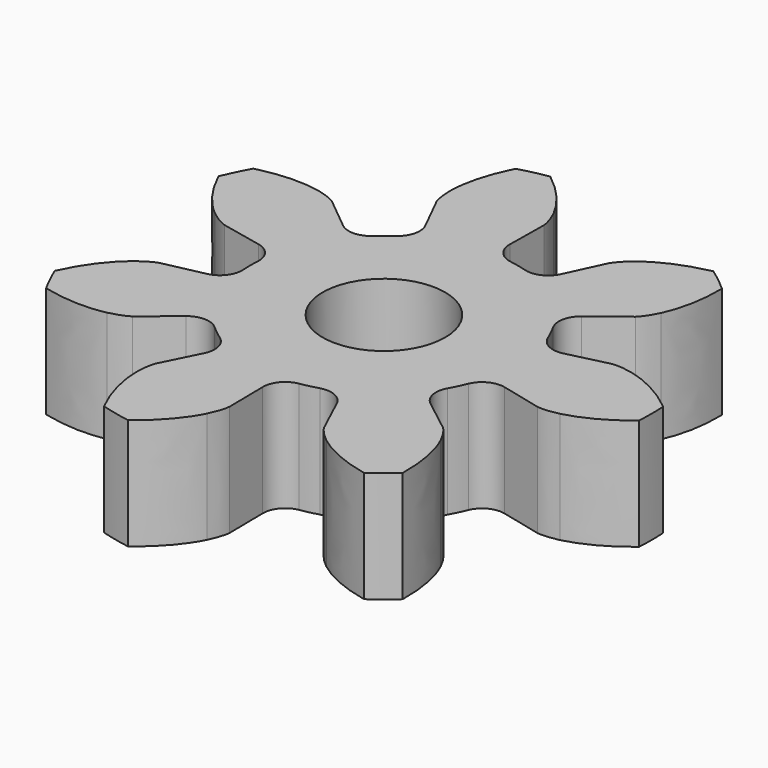
from build123d import *

# Parameters (mm, degrees)
CYLINDER002_R     = 0.875
CYLINDER002_DEPTH = 10
EXTRUDE_DEPTH     = 1.59


with BuildPart() as cylinder002:
    # Cylinder002 → Cylinder002 (new body)
    with BuildSketch(Plane.XY):
        Circle(CYLINDER002_R)
    extrude(amount=CYLINDER002_DEPTH)


with BuildPart() as cut:
    # InvoluteGear → Extrude (new body)
    with BuildSketch(Plane.XY):
        with BuildLine():
            Line((2.145433, -0.523441), (2.728817, -0.664878))
            add(Edge.make_bspline(
                [(2.728817, -0.664878), (2.761585, -0.669616), (2.859596, -0.677652), (3.02783, -0.638771)],
                knots=[0, 0, 0, 0, 1, 1, 1, 1], degree=3))
            add(Edge.make_bspline(
                [(3.02783, -0.638771), (3.226212, -0.590574), (3.503888, -0.476829), (3.820611, -0.215776)],
                knots=[0, 0, 0, 0, 1, 1, 1, 1], degree=3))
            ThreePointArc((3.820611, -0.215776), (3.826702, 0), (3.820611, 0.215776))
            add(Edge.make_bspline(
                [(3.820611, 0.215776), (3.503888, 0.476829), (3.226212, 0.590574), (3.02783, 0.638771)],
                knots=[0, 0, 0, 0, 1, 1, 1, 1], degree=3))
            add(Edge.make_bspline(
                [(3.02783, 0.638771), (2.859596, 0.677652), (2.761585, 0.669616), (2.728817, 0.664878)],
                knots=[0, 0, 0, 0, 1, 1, 1, 1], degree=3))
            Line((2.728817, 0.664878), (2.145433, 0.523441))
            ThreePointArc((2.145433, 0.523441), (1.925498, 0.548923), (1.775218, 0.711518))
            ThreePointArc((1.775218, 0.711518), (1.723103, 0.829803), (1.663117, 0.944297))
            ThreePointArc((1.663117, 0.944297), (1.629693, 1.163167), (1.746898, 1.351007))
            Line((1.746898, 1.351007), (2.221212, 1.718931))
            add(Edge.make_bspline(
                [(2.221212, 1.718931), (2.245347, 1.741595), (2.312739, 1.813213), (2.387233, 1.968986)],
                knots=[0, 0, 0, 0, 1, 1, 1, 1], degree=3))
            add(Edge.make_bspline(
                [(2.387233, 1.968986), (2.473239, 2.154137), (2.557438, 2.442152), (2.550813, 2.85254)],
                knots=[0, 0, 0, 0, 1, 1, 1, 1], degree=3))
            ThreePointArc((2.550813, 2.85254), (2.38591, 2.991836), (2.213412, 3.121609))
            add(Edge.make_bspline(
                [(2.213412, 3.121609), (1.811838, 3.036748), (1.549781, 2.89057), (1.38841, 2.76552)],
                knots=[0, 0, 0, 0, 1, 1, 1, 1], degree=3))
            add(Edge.make_bspline(
                [(1.38841, 2.76552), (1.253119, 2.658231), (1.198293, 2.576592), (1.181567, 2.54802)],
                knots=[0, 0, 0, 0, 1, 1, 1, 1], degree=3))
            Line((1.181567, 2.54802), (0.928413, 2.003727))
            ThreePointArc((0.928413, 2.003727), (0.771363, 1.847662), (0.550543, 1.831545))
            ThreePointArc((0.550543, 1.831545), (0.425571, 1.86455), (0.298655, 1.889037))
            ThreePointArc((0.298655, 1.889037), (0.106697, 1.999368), (0.032913, 2.20812))
            Line((0.032913, 2.20812), (0.040989, 2.808349))
            add(Edge.make_bspline(
                [(0.040989, 2.808349), (0.038317, 2.84135), (0.024342, 2.938692), (-0.051, 3.094056)],
                knots=[0, 0, 0, 0, 1, 1, 1, 1], degree=3))
            add(Edge.make_bspline(
                [(-0.051, 3.094056), (-0.142133, 3.276739), (-0.314814, 3.522142), (-0.6398, 3.772835)],
                knots=[0, 0, 0, 0, 1, 1, 1, 1], degree=3))
            ThreePointArc((-0.6398, 3.772835), (-0.851521, 3.730759), (-1.060532, 3.676806))
            add(Edge.make_bspline(
                [(-1.060532, 3.676806), (-1.244562, 3.309933), (-1.293666, 3.013909), (-1.296511, 2.809776)],
                knots=[0, 0, 0, 0, 1, 1, 1, 1], degree=3))
            add(Edge.make_bspline(
                [(-1.296511, 2.809776), (-1.296982, 2.637108), (-1.267337, 2.543343), (-1.255427, 2.512451)],
                knots=[0, 0, 0, 0, 1, 1, 1, 1], degree=3))
            Line((-1.255427, 2.512451), (-0.987721, 1.975166))
            ThreePointArc((-0.987721, 1.975166), (-0.963624, 1.755075), (-1.088702, 1.572382))
            ThreePointArc((-1.088702, 1.572382), (-1.192424, 1.495253), (-1.2907, 1.411294))
            ThreePointArc((-1.2907, 1.411294), (-1.496645, 1.330005), (-1.705856, 1.402472))
            Line((-1.705856, 1.402472), (-2.1701, 1.783023))
            add(Edge.make_bspline(
                [(-2.1701, 1.783023), (-2.197567, 1.80151), (-2.282385, 1.851276), (-2.450828, 1.889239)],
                knots=[0, 0, 0, 0, 1, 1, 1, 1], degree=3))
            add(Edge.make_bspline(
                [(-2.450828, 1.889239), (-2.650476, 1.931889), (-2.950005, 1.949888), (-3.34863, 1.852109)],
                knots=[0, 0, 0, 0, 1, 1, 1, 1], degree=3))
            ThreePointArc((-3.34863, 1.852109), (-3.44774, 1.660344), (-3.535874, 1.463293))
            add(Edge.make_bspline(
                [(-3.535874, 1.463293), (-3.363782, 1.090672), (-3.162956, 0.867712), (-3.005133, 0.738213)],
                knots=[0, 0, 0, 0, 1, 1, 1, 1], degree=3))
            add(Edge.make_bspline(
                [(-3.005133, 0.738213), (-2.870429, 0.630189), (-2.778637, 0.594904), (-2.747059, 0.584955)],
                knots=[0, 0, 0, 0, 1, 1, 1, 1], degree=3))
            Line((-2.747059, 0.584955), (-2.160081, 0.459265))
            ThreePointArc((-2.160081, 0.459265), (-1.972982, 0.34088), (-1.908132, 0.129183))
            ThreePointArc((-1.908132, 0.129183), (-1.9125, 0), (-1.908132, -0.129183))
            ThreePointArc((-1.908132, -0.129183), (-1.972982, -0.34088), (-2.160081, -0.459265))
            Line((-2.160081, -0.459265), (-2.747059, -0.584955))
            add(Edge.make_bspline(
                [(-2.747059, -0.584955), (-2.778637, -0.594904), (-2.870429, -0.630189), (-3.005133, -0.738213)],
                knots=[0, 0, 0, 0, 1, 1, 1, 1], degree=3))
            add(Edge.make_bspline(
                [(-3.005133, -0.738213), (-3.162956, -0.867712), (-3.363782, -1.090672), (-3.535874, -1.463293)],
                knots=[0, 0, 0, 0, 1, 1, 1, 1], degree=3))
            ThreePointArc((-3.535874, -1.463293), (-3.44774, -1.660344), (-3.34863, -1.852109))
            add(Edge.make_bspline(
                [(-3.34863, -1.852109), (-2.950005, -1.949888), (-2.650476, -1.931889), (-2.450828, -1.889239)],
                knots=[0, 0, 0, 0, 1, 1, 1, 1], degree=3))
            add(Edge.make_bspline(
                [(-2.450828, -1.889239), (-2.282385, -1.851276), (-2.197567, -1.80151), (-2.1701, -1.783023)],
                knots=[0, 0, 0, 0, 1, 1, 1, 1], degree=3))
            Line((-2.1701, -1.783023), (-1.705856, -1.402472))
            ThreePointArc((-1.705856, -1.402472), (-1.496645, -1.330005), (-1.2907, -1.411294))
            ThreePointArc((-1.2907, -1.411294), (-1.192424, -1.495253), (-1.088702, -1.572382))
            ThreePointArc((-1.088702, -1.572382), (-0.963624, -1.755075), (-0.987721, -1.975166))
            Line((-0.987721, -1.975166), (-1.255427, -2.512451))
            add(Edge.make_bspline(
                [(-1.255427, -2.512451), (-1.267337, -2.543343), (-1.296982, -2.637108), (-1.296511, -2.809776)],
                knots=[0, 0, 0, 0, 1, 1, 1, 1], degree=3))
            add(Edge.make_bspline(
                [(-1.296511, -2.809776), (-1.293666, -3.013909), (-1.244562, -3.309933), (-1.060532, -3.676806)],
                knots=[0, 0, 0, 0, 1, 1, 1, 1], degree=3))
            ThreePointArc((-1.060532, -3.676806), (-0.851521, -3.730759), (-0.6398, -3.772835))
            add(Edge.make_bspline(
                [(-0.6398, -3.772835), (-0.314814, -3.522142), (-0.142133, -3.276739), (-0.051, -3.094056)],
                knots=[0, 0, 0, 0, 1, 1, 1, 1], degree=3))
            add(Edge.make_bspline(
                [(-0.051, -3.094056), (0.024342, -2.938692), (0.038317, -2.84135), (0.040989, -2.808349)],
                knots=[0, 0, 0, 0, 1, 1, 1, 1], degree=3))
            Line((0.040989, -2.808349), (0.032913, -2.20812))
            ThreePointArc((0.032913, -2.20812), (0.106697, -1.999368), (0.298655, -1.889037))
            ThreePointArc((0.298655, -1.889037), (0.425571, -1.86455), (0.550543, -1.831545))
            ThreePointArc((0.550543, -1.831545), (0.771363, -1.847662), (0.928413, -2.003727))
            Line((0.928413, -2.003727), (1.181567, -2.54802))
            add(Edge.make_bspline(
                [(1.181567, -2.54802), (1.198293, -2.576592), (1.253119, -2.658231), (1.38841, -2.76552)],
                knots=[0, 0, 0, 0, 1, 1, 1, 1], degree=3))
            add(Edge.make_bspline(
                [(1.38841, -2.76552), (1.549781, -2.89057), (1.811838, -3.036748), (2.213412, -3.121609)],
                knots=[0, 0, 0, 0, 1, 1, 1, 1], degree=3))
            ThreePointArc((2.213412, -3.121609), (2.38591, -2.991836), (2.550813, -2.85254))
            add(Edge.make_bspline(
                [(2.550813, -2.85254), (2.557438, -2.442152), (2.473239, -2.154137), (2.387233, -1.968986)],
                knots=[0, 0, 0, 0, 1, 1, 1, 1], degree=3))
            add(Edge.make_bspline(
                [(2.387233, -1.968986), (2.312739, -1.813213), (2.245347, -1.741595), (2.221212, -1.718931)],
                knots=[0, 0, 0, 0, 1, 1, 1, 1], degree=3))
            Line((2.221212, -1.718931), (1.746898, -1.351007))
            ThreePointArc((1.746898, -1.351007), (1.629693, -1.163167), (1.663117, -0.944297))
            ThreePointArc((1.663117, -0.944297), (1.723103, -0.829803), (1.775218, -0.711518))
            ThreePointArc((1.775218, -0.711518), (1.925498, -0.548923), (2.145433, -0.523441))
        make_face()
    extrude(amount=EXTRUDE_DEPTH)

    # Cut: cut Cylinder002
    add(cylinder002.part, mode=Mode.SUBTRACT)


solid = cut.part
